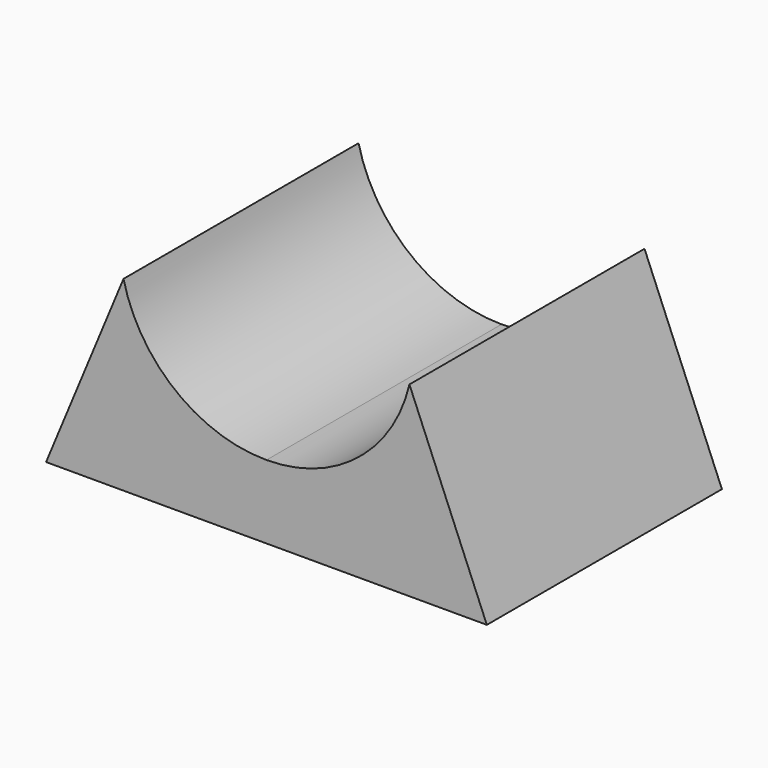
from build123d import *

# Parameters (mm, degrees)
F1_DEPTH = 25.4


with BuildPart() as f1:
    # F0 (on Front) → F1 (new body)
    with BuildSketch(Plane.XZ):
        with BuildLine():
            Line((6.69256, 16.120211), (0, 0))
            Line((0, 0), (19.05, 0))
            Line((19.05, 0), (19.05, 6.35))
            ThreePointArc((19.05, 6.35), (11.173399, 9.087613), (6.69256, 16.120211))
        make_face()
        with BuildLine():
            Line((19.05, 6.35), (19.05, 0))
            Line((19.05, 0), (38.1, 0))
            Line((38.1, 0), (31.40744, 16.120211))
            ThreePointArc((31.40744, 16.120211), (26.926601, 9.087613), (19.05, 6.35))
        make_face()
    extrude(amount=F1_DEPTH)


solid = f1.part
